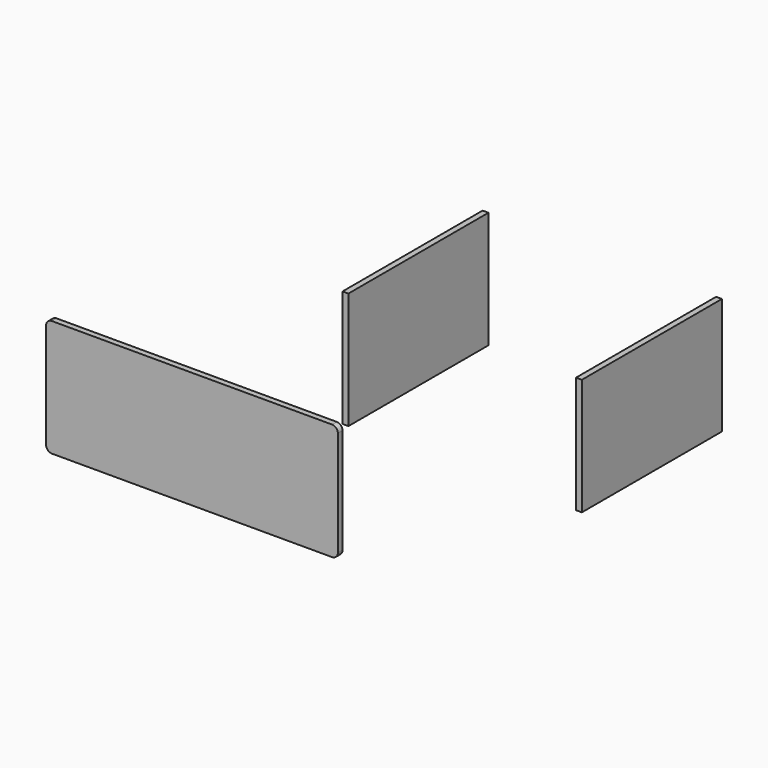
from build123d import *

# Parameters (mm, degrees)
F0_W     = 250
F0_H     = 100
F1_DEPTH = 5
F2_R     = 5
F3_W     = 150
F3_H     = 100
F4_DEPTH = 5


with BuildPart() as f1:
    # F0 (on Front) → F1 (new body)
    with BuildSketch(Plane.XZ):
        with Locations((-125, -50)):
            Rectangle(F0_W, F0_H)
    extrude(amount=F1_DEPTH)

    # F2
    f2_edges = [f1.edges().sort_by_distance(p)[0] for p in [
        (-250, -2.5, -100),
        (0, -2.5, -100),
        (0, -2.5, 0),
        (-250, -2.5, 0),
    ]]
    fillet(f2_edges, radius=F2_R)


with BuildPart() as f4:
    # F3 (on Right) → F4 (new body)
    with BuildSketch(Plane.YZ):
        with Locations((75, 50)):
            Rectangle(F3_W, F3_H)
    extrude(amount=F4_DEPTH)


with BuildPart() as f5_1:
    # F5: copy of F4
    add(f4.part.moved(Location((200, 0, 0))))


solid = Compound([f1.part, f4.part, f5_1.part])
